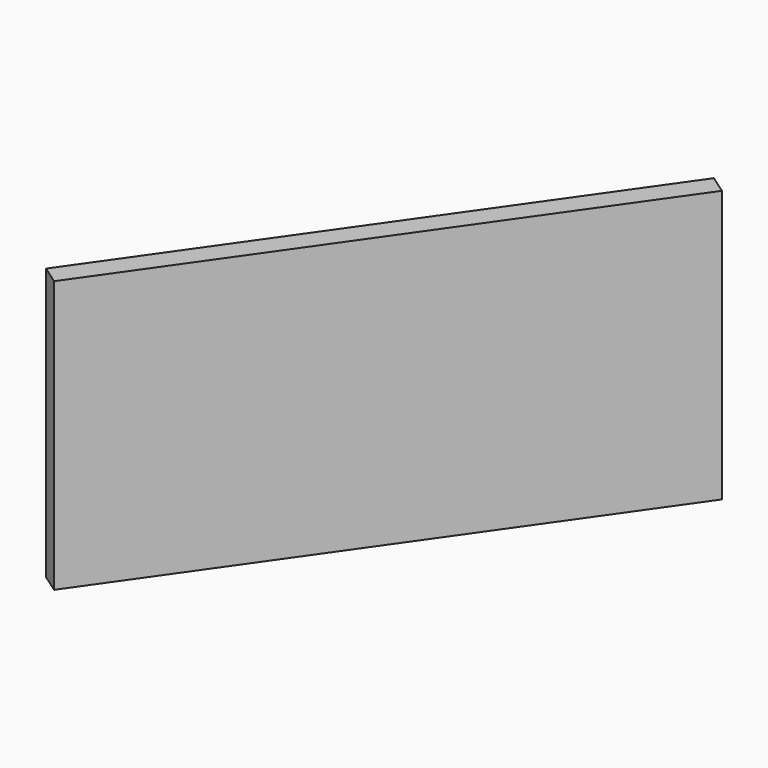
from build123d import *

# Parameters (mm, degrees)
F0_W     = 244
F0_H     = 122
F1_DEPTH = 10
F2_ANGLE = 90
F3_ANGLE = 125


with BuildPart() as f1:
    # F0 (on Top) → F1 (new body)
    with BuildSketch(Plane.XY):
        with Locations((0.335931778, -17.06091269)):
            Rectangle(F0_W, F0_H)
    extrude(amount=F1_DEPTH)


with BuildPart() as f1_1:
    # F2: moved
    add(f1.part.rotate(Axis((0.335931778, -78.06091269, 0), (1, 0, 0)), F2_ANGLE))


with BuildPart() as f1_2:
    # F3: moved
    add(f1_1.part.rotate(Axis((-121.664068222, -88.06091269, 61), (0, 0, -1)), F3_ANGLE))


solid = f1_2.part
